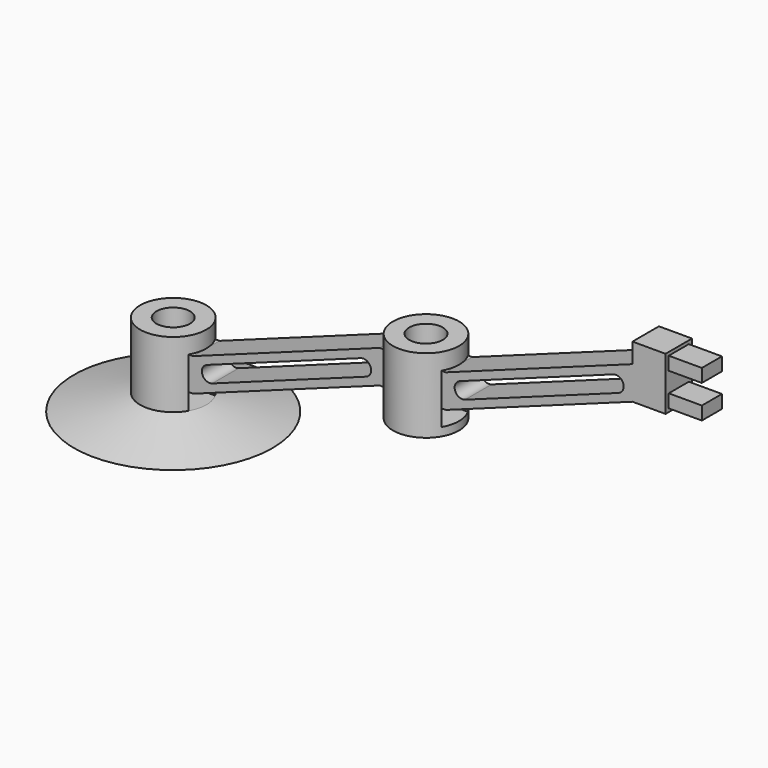
from build123d import *

# Parameters (mm, degrees)
F0_W     = 3.1242
F0_H     = 3.175
F2_DEPTH = 3.175
F0_W_2   = 0.254
F0_W_3   = 6.35
F0_H_2   = 3.81
F4_W     = 3.175
F4_H     = 3.175
F5_DEPTH = 6.35
F6_W     = 6.35
F6_H     = 3.175
F7_DEPTH = 12.954
F9_DEPTH = 6.35


with BuildPart() as f1:
    # F0 (on Front) → F1 (revolve)
    with BuildSketch(Plane.XZ):
        Polygon((3.2258, 3.175), (0, 3.175), (0, 1.5875), (6.35, 0), (19.05, 0), (6.35, 3.175), (6.35, 6.35), (3.2258, 6.35), align=None)
        Polygon((3.2258, 9.525), (3.2258, 6.35), (6.35, 6.35), (6.35, 7.9375), (6.35, 9.525), align=None)
        Polygon((3.2258, 12.7), (3.2258, 9.525), (6.35, 9.525), (6.35, 11.1125), (6.35, 12.7), align=None)
        with Locations((4.7879, 14.2875)):
            Rectangle(F0_W, F0_H)
    revolve(axis=Axis((0, 0, 9.525), (0, 0, 1)))

    # F0 (on Front) → F2 (join, symmetric)
    with BuildSketch(Plane.XZ):
        Polygon((6.35, 7.9375), (6.35, 6.35), (42.1522888519, 19.3809674607), (42.1522888519, 20.9684674607), (39.5324932131, 20.0149398283), (10.0352127619, 9.2788077523), align=None)
        with BuildLine():
            Line((8.1232022233, 10.1703928286), (6.35, 9.525))
            Line((6.35, 9.525), (6.35, 7.9375))
            Line((6.35, 7.9375), (10.0352127619, 9.2788077523))
            ThreePointArc((10.0352127619, 9.2788077523), (8.8945541682, 9.3286099229), (8.1232022233, 10.1703928286))
        make_face()
        with BuildLine():
            Line((6.35, 11.1125), (6.35, 9.525))
            Line((6.35, 9.525), (8.1232022233, 10.1703928286))
            ThreePointArc((8.1232022233, 10.1703928286), (8.173004472, 11.3110514176), (9.014787429, 12.0824033048))
            Line((9.014787429, 12.0824033048), (6.35, 11.1125))
        make_face()
        Polygon((42.1522888519, 25.7309674607), (6.35, 12.7), (6.35, 11.1125), (9.014787429, 12.0824033048), (38.5120679189, 22.8185353949), (42.1522888519, 24.1434674607), align=None)
        Polygon((3.2258, 12.7), (3.2258, 9.525), (6.35, 9.525), (6.35, 11.1125), (6.35, 12.7), align=None)
        Polygon((3.2258, 9.525), (3.2258, 6.35), (6.35, 6.35), (6.35, 7.9375), (6.35, 9.525), align=None)
        with BuildLine():
            Line((42.1015425762, 22.5374973268), (42.1522888519, 22.5377925414))
            Line((42.1522888519, 22.5377925414), (42.1522888519, 24.1434674607))
            Line((42.1522888519, 24.1434674607), (38.5120679189, 22.8185353949))
            ThreePointArc((38.5120679189, 22.8185353949), (39.65272644, 22.7687331418), (40.4240783174, 21.9269502676))
            Line((40.4240783174, 21.9269502676), (40.5140425762, 21.9596945799))
            Line((40.5140425762, 21.9596945799), (42.1015425762, 22.5374973268))
        make_face()
        with BuildLine():
            Line((39.5324932131, 20.0149398283), (42.1522888519, 20.9684674607))
            Line((42.1522888519, 20.9684674607), (42.1522888519, 22.5377925414))
            Line((42.1522888519, 22.5377925414), (42.1015425762, 22.5374973268))
            Line((42.1015425762, 22.5374973268), (40.5140425762, 21.9596945799))
            Line((40.5140425762, 21.9596945799), (40.4240783174, 21.9269502676))
            ThreePointArc((40.4240783174, 21.9269502676), (40.4913793589, 21.6757793614), (40.5140425762, 21.4167376024))
            ThreePointArc((40.5140425762, 21.4167376024), (40.2442604638, 20.5610980533), (39.5324932131, 20.0149398283))
        make_face()
        Polygon((45.2764888519, 25.7309674607), (42.1522888519, 25.7309674607), (42.1522888519, 24.1434674607), (42.1522888519, 22.5377925414), (45.2764888519, 22.5559674607), align=None)
        with BuildLine():
            Line((39.5324932131, 20.0149398283), (42.1522888519, 20.9684674607))
            Line((42.1522888519, 20.9684674607), (42.1522888519, 22.5377925414))
            Line((42.1522888519, 22.5377925414), (42.1015425762, 22.5374973268))
            Line((42.1015425762, 22.5374973268), (40.5140425762, 21.9596945799))
            Line((40.5140425762, 21.9596945799), (40.4240783174, 21.9269502676))
            ThreePointArc((40.4240783174, 21.9269502676), (40.4913793589, 21.6757793614), (40.5140425762, 21.4167376024))
            ThreePointArc((40.5140425762, 21.4167376024), (40.2442604638, 20.5610980533), (39.5324932131, 20.0149398283))
        make_face()
        Polygon((42.1522888519, 20.9684674607), (42.1522888519, 19.3809674607), (45.2764888519, 19.3809674607), (45.2764888519, 22.5559674607), (42.1522888519, 22.5377925414), align=None)
    extrude(amount=F2_DEPTH, both=True)



with BuildPart() as f2:
    # F0 (on Front) → F2, piece 2 (new body, symmetric)
    with BuildSketch(Plane.XZ):
        with Locations((54.9792888519, 17.7934674607)):
            Rectangle(F0_W_2, F0_H)
    extrude(amount=F2_DEPTH, both=True)

    # F0 (on Front) → F2, piece 3 (join, symmetric)
    with BuildSketch(Plane.XZ):
        Polygon((51.7280888519, 22.5559674607), (51.7280888519, 19.3809674607), (54.8522888519, 19.3809674607), (54.8522888519, 20.9684674607), (54.8522888519, 22.5559674607), align=None)
        Polygon((51.7280888519, 25.7309674607), (51.7280888519, 22.5559674607), (54.8522888519, 22.5559674607), (54.8522888519, 24.1434674607), (54.8522888519, 25.7309674607), align=None)
        Polygon((90.6545777039, 38.7619349214), (54.8522888519, 25.7309674607), (54.8522888519, 24.1434674607), (57.5170761795, 25.1133707286), (86.9693651328, 35.8331272386), (90.6545777039, 37.1744349214), align=None)
        with BuildLine():
            Line((54.8522888519, 24.1434674607), (54.8522888519, 22.5559674607))
            Line((54.8522888519, 22.5559674607), (56.6254910752, 23.2013602893))
            ThreePointArc((56.6254910752, 23.2013602893), (56.6752933011, 24.3420188294), (57.5170761795, 25.1133707286))
            Line((57.5170761795, 25.1133707286), (54.8522888519, 24.1434674607))
        make_face()
        with BuildLine():
            Line((54.8522888519, 22.5559674607), (54.8522888519, 20.9684674607))
            Line((54.8522888519, 20.9684674607), (58.5375015244, 22.3097751804))
            ThreePointArc((58.5375015244, 22.3097751804), (57.3968429771, 22.3595774037), (56.6254910752, 23.2013602893))
            Line((56.6254910752, 23.2013602893), (54.8522888519, 22.5559674607))
        make_face()
        Polygon((54.8522888519, 20.9684674607), (54.8522888519, 19.3809674607), (90.6545777039, 32.4119349214), (90.6545777039, 33.9994349214), (87.9897903763, 33.0295316535), (58.5375015244, 22.3097751804), align=None)
        with BuildLine():
            Line((87.9897903763, 33.0295316535), (90.6545777039, 33.9994349214))
            Line((90.6545777039, 33.9994349214), (90.6545777039, 35.5869349214))
            Line((90.6545777039, 35.5869349214), (88.8813754806, 34.9415420928))
            ThreePointArc((88.8813754806, 34.9415420928), (88.9486765221, 34.6903711866), (88.9713397394, 34.4313294276))
            ThreePointArc((88.9713397394, 34.4313294276), (88.7015576271, 33.5756898786), (87.9897903763, 33.0295316535))
        make_face()
        with BuildLine():
            Line((88.8813754806, 34.9415420928), (90.6545777039, 35.5869349214))
            Line((90.6545777039, 35.5869349214), (90.6545777039, 37.1744349214))
            Line((90.6545777039, 37.1744349214), (86.9693651328, 35.8331272386))
            ThreePointArc((86.9693651328, 35.8331272386), (88.1100236277, 35.7833249556), (88.8813754806, 34.9415420928))
        make_face()
        Polygon((90.6545777039, 33.9994349214), (90.6545777039, 32.4119349214), (97.0045777039, 32.4119349214), (97.0045777039, 38.7619349214), (90.6545777039, 38.7619349214), (90.6545777039, 37.1744349214), (90.6545777039, 35.5869349214), align=None)
        Polygon((90.6545777039, 33.9994349214), (90.6545777039, 32.4119349214), (97.0045777039, 32.4119349214), (97.0045777039, 38.7619349214), (90.6545777039, 38.7619349214), (90.6545777039, 37.1744349214), (90.6545777039, 35.5869349214), align=None)
        with Locations((93.8295777039, 40.6669349214)):
            Rectangle(F0_W_3, F0_H_2)
    extrude(amount=F2_DEPTH, both=True)


with BuildPart() as f1_1:
    add(f1.part)

    add(f2.part)  # F3 merges F2
    # F0 (on Front) → F3 (revolve)
    with BuildSketch(Plane.XZ):
        Polygon((45.2764888519, 16.2059674607), (42.1522888519, 16.2059674607), (42.1522888519, 14.6184674607), (48.5022888519, 14.6184674607), (48.5022888519, 16.2059674607), align=None)
        with Locations((43.7143888519, 17.7934674607)):
            Rectangle(F0_W, F0_H)
        Polygon((42.1522888519, 20.9684674607), (42.1522888519, 19.3809674607), (45.2764888519, 19.3809674607), (45.2764888519, 22.5559674607), (42.1522888519, 22.5377925414), align=None)
        Polygon((45.2764888519, 25.7309674607), (42.1522888519, 25.7309674607), (42.1522888519, 24.1434674607), (42.1522888519, 22.5377925414), (45.2764888519, 22.5559674607), align=None)
        with Locations((43.7143888519, 27.3184674607)):
            Rectangle(F0_W, F0_H)
    revolve(axis=Axis((48.5022888519, 0, 22.5559674607), (0, 0, 1)))

    # F4 (on Right) → F5 (cut)
    with BuildSketch(Plane.YZ):
        with Locations((-1.5875, 4.7625)):
            Rectangle(F4_W, F4_H)
        with Locations((1.5875, 4.7625)):
            Rectangle(F4_W, F4_H)
    extrude(amount=F5_DEPTH, mode=Mode.SUBTRACT)

    # F6 (on face) → F7 (cut)
    with BuildSketch(Plane.YZ.offset(55.1062888519)):
        with Locations((0, 17.7934674607)):
            Rectangle(F6_W, F6_H)
    extrude(amount=-F7_DEPTH, mode=Mode.SUBTRACT)

    # F8 (on face) → F9 (join)
    with BuildSketch(Plane.YZ.offset(97.0045777039)):
        Polygon((0, 41.9369349214), (-2.4077083333, 41.9369349214), (0, 40.6669349214), align=None)
        Polygon((2.4077083333, 41.9369349214), (0, 41.9369349214), (0, 40.6669349214), align=None)
        Polygon((0, 33.0469349214), (0, 34.3169349214), (-2.4077083333, 33.0469349214), align=None)
        Polygon((2.4077083333, 33.0469349214), (0, 34.3169349214), (0, 33.0469349214), align=None)
        Polygon((2.4077083333, 33.0469349214), (2.4077083333, 35.5869349214), (0, 34.3169349214), align=None)
        Polygon((2.4077083333, 35.5869349214), (0, 35.5869349214), (0, 34.3169349214), align=None)
        Polygon((0, 34.3169349214), (0, 35.5869349214), (-2.4077083333, 35.5869349214), align=None)
        Polygon((0, 34.3169349214), (-2.4077083333, 35.5869349214), (-2.4077083333, 33.0469349214), align=None)
        Polygon((0, 40.6669349214), (-2.4077083333, 39.3969349214), (0, 39.3969349214), align=None)
        Polygon((0, 40.6669349214), (-2.4077083333, 41.9369349214), (-2.4077083333, 39.3969349214), align=None)
        Polygon((2.4077083333, 39.3969349214), (0, 40.6669349214), (0, 39.3969349214), align=None)
        Polygon((2.4077083333, 41.9369349214), (0, 40.6669349214), (2.4077083333, 39.3969349214), align=None)
    extrude(amount=F9_DEPTH)


solid = f1_1.part
